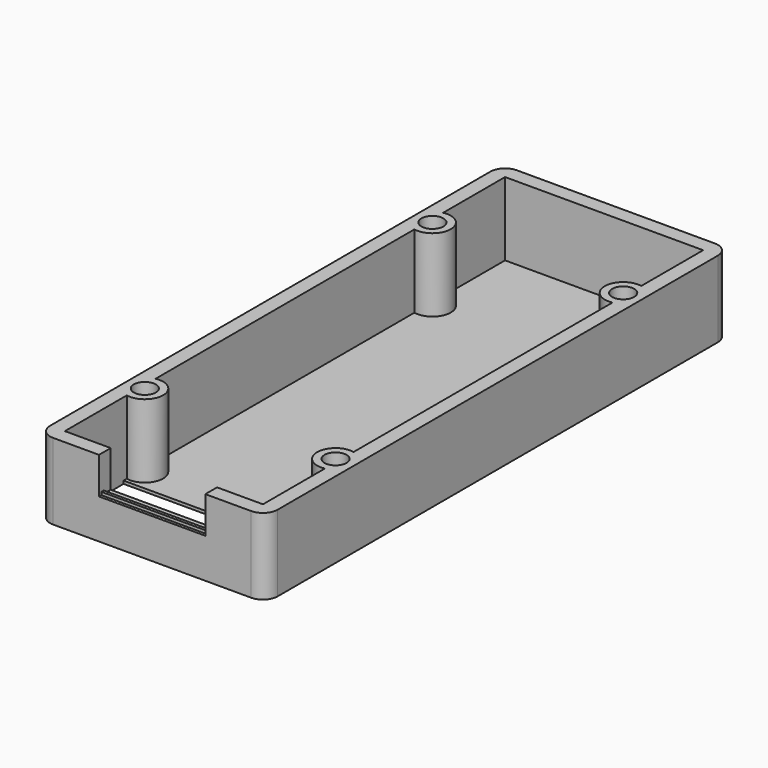
from build123d import *

# Parameters (mm, degrees)
SKETCH_W        = 27
SKETCH_H        = 75
PAD_DEPTH       = 10
SKETCH001_W     = 27
SKETCH001_H     = 10
PAD001_DEPTH    = 0.4
POCKET_DEPTH    = 5
SKETCH011_W     = 14.5
SKETCH011_H     = 0.4
PAD004_DEPTH    = 0.4
SKETCH012_R     = 2.5
PAD005_DEPTH    = 10.4
SKETCH009_R     = 1.5
POCKET001_DEPTH = 10.401
FILLET_R        = 2


with BuildPart() as part:
    # Sketch → Pad (new body)
    with BuildSketch(Plane.XY):
        Polygon((0, 0), (15.5, 0), (15.5, 39.5), (15.5, 79), (0, 79), (-15.5, 79), (-15.5, 39.5), (-15.5, 0), align=None)
        with Locations((0, 39.5)):
            Rectangle(SKETCH_W, SKETCH_H, mode=Mode.SUBTRACT)
    extrude(amount=PAD_DEPTH)

    # Sketch001 → Pad001 (join)
    with BuildSketch(Plane.XY):
        Polygon((-15.5, 79), (-15.5, 39.5), (-15.5, 0), (0, 0), (15.5, 0), (15.5, 39.5), (15.5, 79), (0, 79), align=None)
        with Locations((0, 7)):
            Rectangle(SKETCH001_W, SKETCH001_H, mode=Mode.SUBTRACT)
    extrude(amount=-PAD001_DEPTH)

    # Sketch010 (on DatumPlane) → Pocket (cut)
    with BuildSketch(Plane(origin=(0, 0, 10), x_dir=(-1, 0, 0), z_dir=(0, 0, 1))):
        Polygon((0, 0), (7.25, 0), (7.25, -2), (-7.25, -2), (-7.25, 0), align=None)
    extrude(amount=-POCKET_DEPTH, mode=Mode.SUBTRACT)

    # Sketch011 (on DatumPlane) → Pad004 (join)
    with BuildSketch(Plane(origin=(0, 0, 5), x_dir=(-1, 0, 0), z_dir=(0, 0, 1))):
        with Locations((0, -0.6)):
            Rectangle(SKETCH011_W, SKETCH011_H)
    extrude(amount=PAD004_DEPTH)

    # Sketch012 (on DatumPlane) → Pad005 (join)
    with BuildSketch(Plane(origin=(-15.5, 39.5, 10), x_dir=(-1, 0, 0), z_dir=(0, 0, 1))):
        with Locations((-2.5, 24.5)):
            Circle(SKETCH012_R)
        with Locations((-28.5, 24.5)):
            Circle(SKETCH012_R)
        with Locations((-28.5, -24.5)):
            Circle(SKETCH012_R)
        with Locations((-2.5, -24.5)):
            Circle(SKETCH012_R)
    extrude(amount=-PAD005_DEPTH)

    # Sketch009 (on DatumPlane) → Pocket001 (cut, through all)
    with BuildSketch(Plane(origin=(-15.5, 39.5, 10), x_dir=(-1, 0, 0), z_dir=(0, 0, 1))):
        with Locations((-28.5, 24.5)):
            Circle(SKETCH009_R)
        with Locations((-2.5, 24.5)):
            Circle(SKETCH009_R)
        with Locations((-28.5, -24.5)):
            Circle(SKETCH009_R)
        with Locations((-2.5, -24.5)):
            Circle(SKETCH009_R)
    extrude(amount=-POCKET001_DEPTH, mode=Mode.SUBTRACT)

    # Fillet
    fillet_edges = [part.edges().sort_by_distance(p)[0] for p in [
        (-15.5, 0, 5),
        (15.5, 0, 5),
        (15.5, 79, 5),
        (-15.5, 79, 5),
    ]]
    fillet(fillet_edges, radius=FILLET_R)


solid = part.part
